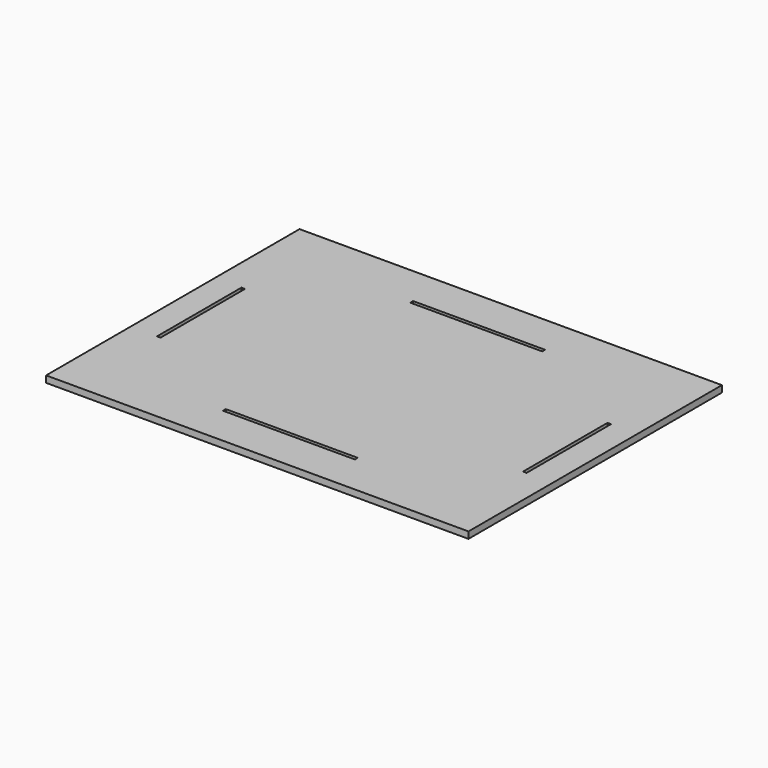
from build123d import *

# Parameters (mm, degrees)
F0_W     = 406.4
F0_H     = 304.8
F0_W_2   = 127
F0_H_2   = 3.4163
F0_W_3   = 3.4163
F0_H_3   = 101.6
F1_DEPTH = 6.35


with BuildPart() as f1:
    # F0 (on Top) → F1 (new body)
    with BuildSketch(Plane.XY):
        Rectangle(F0_W, F0_H)
        with Locations((0, -112.59185)):
            Rectangle(F0_W_2, F0_H_2, mode=Mode.SUBTRACT)
        with Locations((-176.09185, 0)):
            Rectangle(F0_W_3, F0_H_3, mode=Mode.SUBTRACT)
        with Locations((0, 112.59185)):
            Rectangle(F0_W_2, F0_H_2, mode=Mode.SUBTRACT)
        with Locations((176.09185, 0)):
            Rectangle(F0_W_3, F0_H_3, mode=Mode.SUBTRACT)
    extrude(amount=-F1_DEPTH)


solid = f1.part
